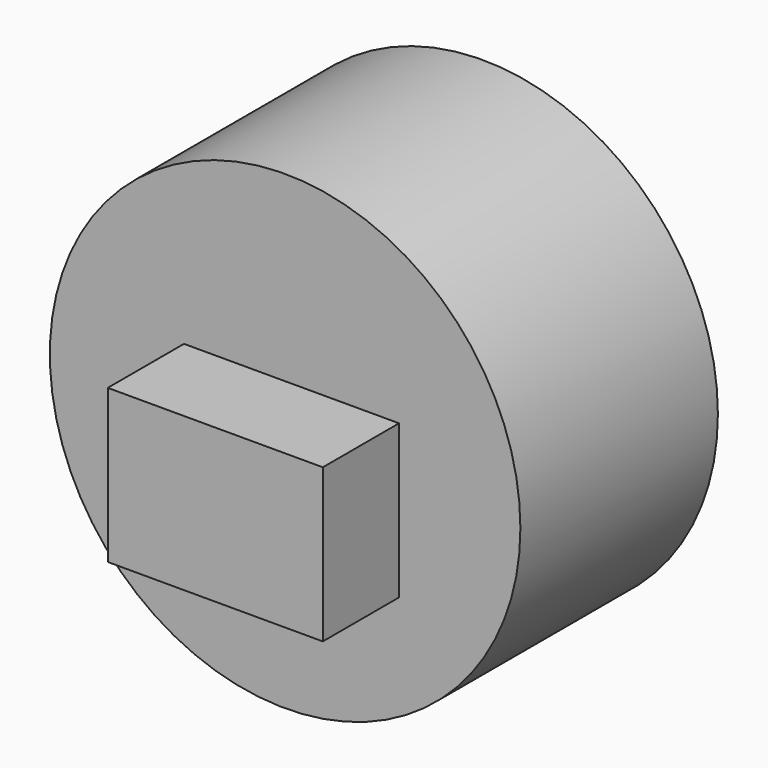
from build123d import *

# Parameters (mm, degrees)
F0_W     = 56.436695
F0_H     = 40.230245
F1_DEPTH = 25
F2_R     = 61.740337
F3_DEPTH = 64.786173


with BuildPart() as f1:
    # F0 (on Front) → F1 (new body)
    with BuildSketch(Plane.XZ):
        with Locations((1.673823, -6.281949)):
            Rectangle(F0_W, F0_H)
    extrude(amount=F1_DEPTH)

    # F2 (on Front) → F3 (join)
    with BuildSketch(Plane.XZ):
        Circle(F2_R)
    extrude(amount=-F3_DEPTH)


solid = f1.part
